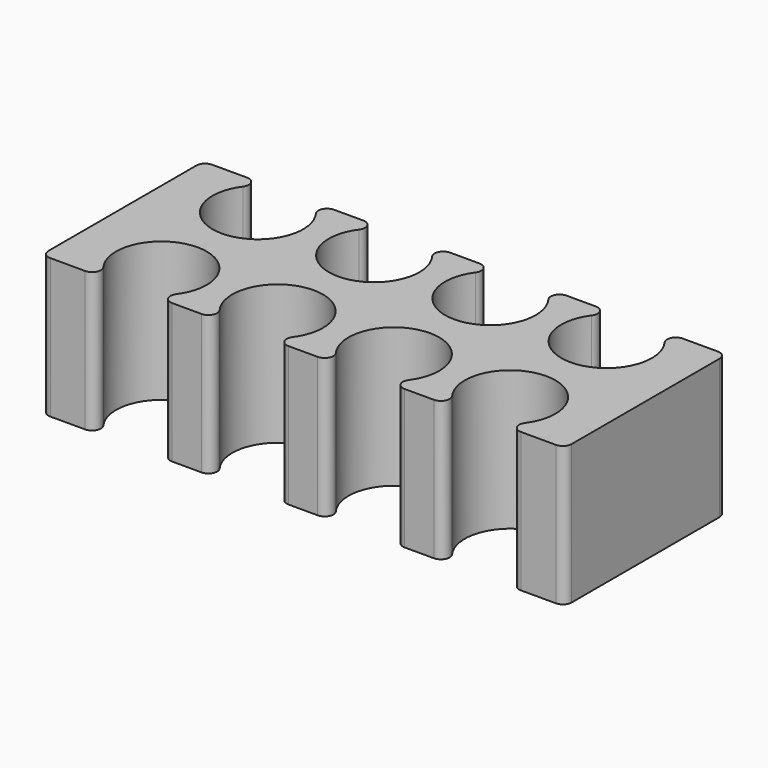
from build123d import *

# Parameters (mm, degrees)
SKETCH_W            = 30
SKETCH_H            = 11.6
PAD_DEPTH           = 8
SKETCH001_R         = 2.6
POCKET_DEPTH        = 0.001
POCKET_DEPTH_BACK   = 8.001
LINEARPATTERN_COUNT = 4
LINEARPATTERN_PITCH = 6.666667
PARTDESIGN_FILLET_R = 0.5


with BuildPart() as part:
    # Sketch → Pad (new body)
    with BuildSketch(Plane.XY):
        Rectangle(SKETCH_W, SKETCH_H)
    extrude(amount=PAD_DEPTH)

    # Sketch001 → Pocket (cut, two sides)
    with BuildSketch(Plane.XY) as pocket_sk:
        with Locations((-10, 3.46)):
            Circle(SKETCH001_R)
        with Locations((-10, -3.46)):
            Circle(SKETCH001_R)
    pocket = extrude(amount=-POCKET_DEPTH, mode=Mode.SUBTRACT) + extrude(pocket_sk.sketch, amount=POCKET_DEPTH_BACK, mode=Mode.SUBTRACT)

    # LinearPattern: Pocket ×4
    with Locations(*[(i * LINEARPATTERN_PITCH, 0, 0) for i in range(1, LINEARPATTERN_COUNT)]):
        add(pocket, mode=Mode.SUBTRACT)

    # PartDesign__Fillet
    partdesign_fillet_edges = [part.edges().sort_by_distance(p)[0] for p in [
        (-15, -5.8, 4),
        (-15, 5.8, 4),
        (-11.133314, -5.8, 4),
        (-11.133314, 5.8, 4),
        (-7.4, -3.46, 4),
        (-7.4, 3.46, 4),
        (-8.866686, 5.8, 4),
        (-4.466647, 5.8, 4),
        (-0.733333, 3.46, 4),
        (-2.20002, 5.8, 4),
        (2.20002, 5.8, 4),
        (5.933333, 3.46, 4),
        (4.466647, 5.8, 4),
        (8.866686, 5.8, 4),
        (12.6, 3.46, 4),
        (11.133314, 5.8, 4),
        (15, 5.8, 4),
        (15, -5.8, 4),
        (11.133314, -5.8, 4),
        (12.6, -3.46, 4),
        (8.866686, -5.8, 4),
        (4.466647, -5.8, 4),
        (5.933333, -3.46, 4),
        (2.20002, -5.8, 4),
        (-2.20002, -5.8, 4),
        (-0.733333, -3.46, 4),
        (-4.466647, -5.8, 4),
        (-8.866686, -5.8, 4),
    ]]
    fillet(partdesign_fillet_edges, radius=PARTDESIGN_FILLET_R)


solid = part.part
